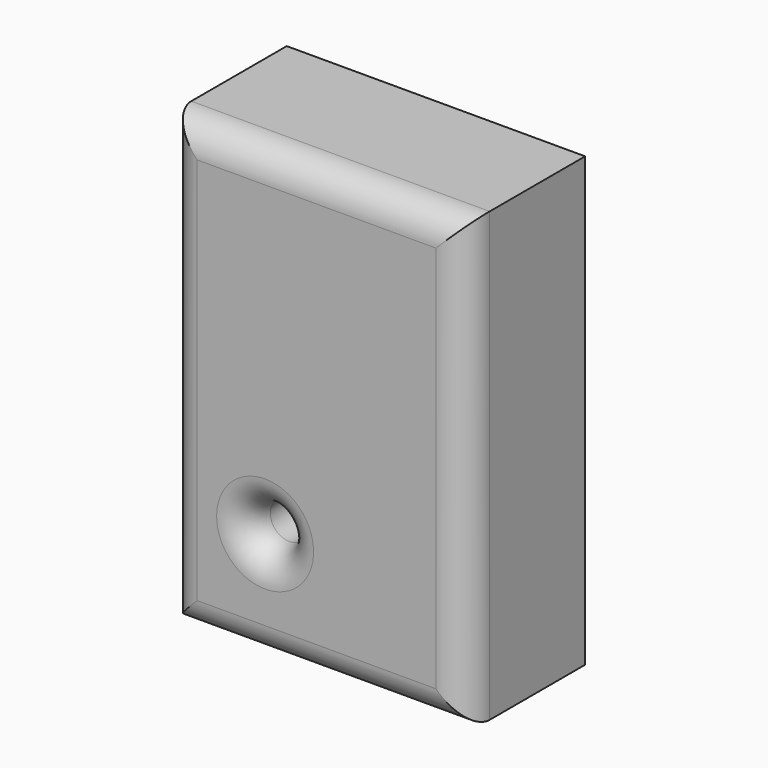
from build123d import *

# Parameters (mm, degrees)
F0_W     = 50.8
F0_H     = 76.2
F1_DEPTH = 25.4
F3_D     = 6.35
F4_R     = 5.08


with BuildPart() as f1:
    # F0 (on Front) → F1 (new body)
    with BuildSketch(Plane.XZ):
        with Locations((25.4, 38.1)):
            Rectangle(F0_W, F0_H)
    extrude(amount=F1_DEPTH)

    # F3 (through all)
    with Locations(Plane.XZ.offset(25.4)):
        with Locations((16.642079, 18.818352)):
            Hole(F3_D / 2)

    # F4
    f4_edges = [f1.edges().sort_by_distance(p)[0] for p in [
        (0, -25.4, 38.1),
        (25.4, -25.4, 76.2),
        (25.4, -25.4, 0),
        (50.8, -25.4, 38.1),
        (13.467079, -25.4, 18.818352),
    ]]
    fillet(f4_edges, radius=F4_R)


solid = f1.part
